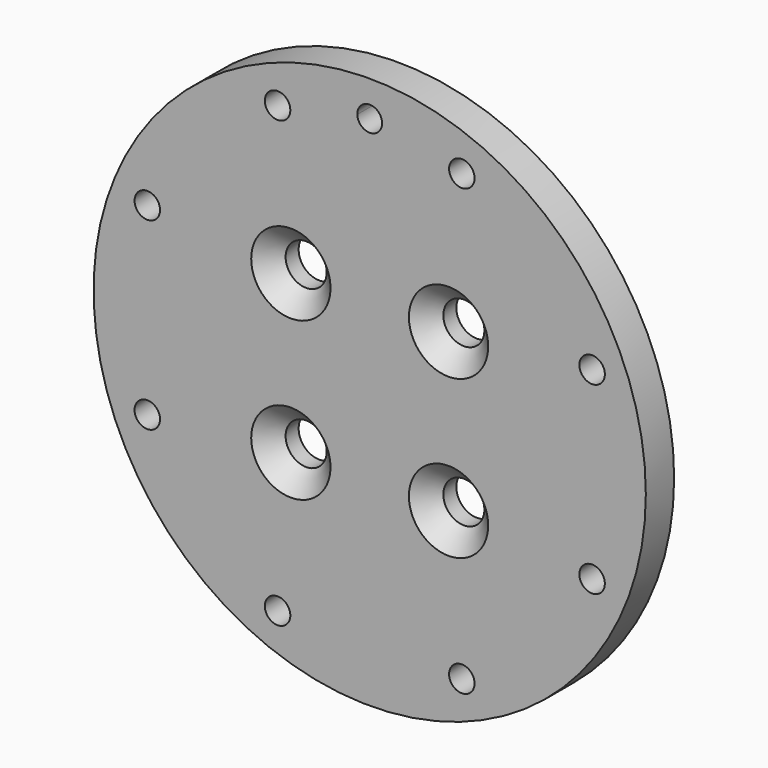
from build123d import *

# Parameters (mm, degrees)
F0_R           = 39
F1_DEPTH       = 5
F3_D           = 3.6
F5_D           = 5.8
F5_CSINK_D     = 11.2
F5_CSINK_ANGLE = 90
F6_DEPTH       = 25


with BuildPart() as f1:
    # F0 (on Front) → F1 (new body)
    with BuildSketch(Plane.XZ):
        Circle(F0_R)
    extrude(amount=F1_DEPTH)

    # F3 (through all)
    with Locations(Plane.XZ.offset(5)):
        with Locations((31.4119041054, 13.0112367004), (13.0112367004, 31.4119041054), (-13.0112367004, 31.4119041054), (-31.4119041054, 13.0112367004), (-31.4119041054, -13.0112367004), (-13.0112367004, -31.4119041054), (13.0112367004, -31.4119041054), (31.4119041054, -13.0112367004)):
            Hole(F3_D / 2)

    # F5 (through all)
    with Locations(Plane.XZ.offset(5)):
        with Locations((11.1369318037, 11.1369318037), (-11.1369318037, 11.1369318037), (-11.1369318037, -11.1369318037), (11.1369318037, -11.1369318037)):
            CounterSinkHole(F5_D / 2, F5_CSINK_D / 2, counter_sink_angle=F5_CSINK_ANGLE)

    # F2 (on face) → F6 (cut)
    with BuildSketch(Plane.XZ.offset(5)):
        with BuildLine():
            ThreePointArc((-1.7494203868, 33.9549632353), (0, 32.25), (1.7494203868, 33.9549632353))
            ThreePointArc((1.7494203868, 33.9549632353), (0, 34), (-1.7494203868, 33.9549632353))
        make_face()
        with BuildLine():
            ThreePointArc((-1.7494203868, 33.9549632353), (0, 34), (1.7494203868, 33.9549632353))
            ThreePointArc((1.7494203868, 33.9549632353), (1.7498550907, 33.9774797529), (1.75, 34))
            ThreePointArc((1.75, 34), (-0.0225202471, 35.7498550907), (-1.7494203868, 33.9549632353))
        make_face()
    extrude(amount=-F6_DEPTH, mode=Mode.SUBTRACT)


solid = f1.part
